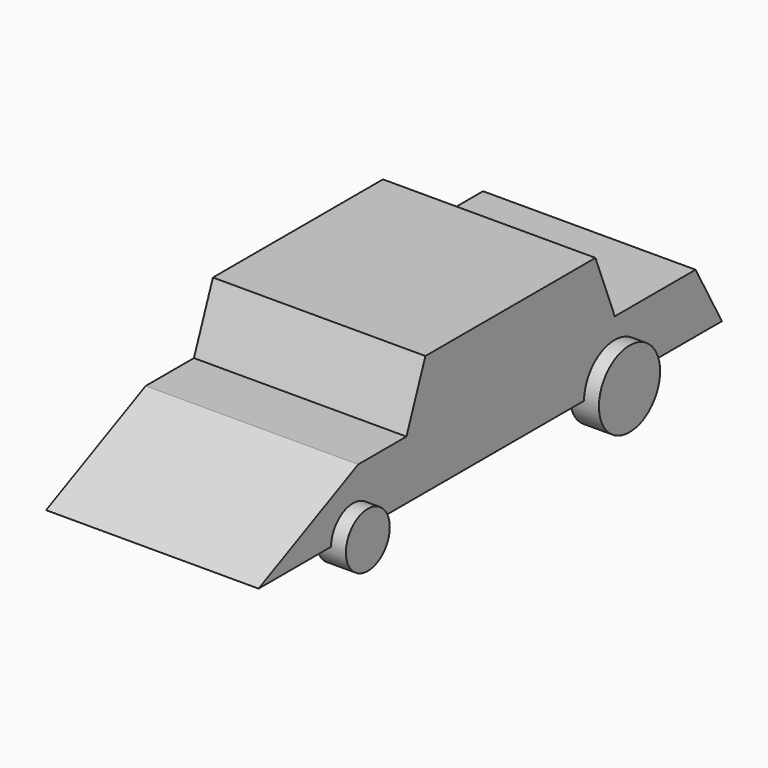
from build123d import *

# Parameters (mm, degrees)
F1_DEPTH      = 101.6
F2_R          = 13.3499518003
F2_R_2        = 18.5793981889
F3_DEPTH      = 8.128
F3_DEPTH_BACK = 4.318
F5_START      = 94.742
F4_R          = 13.0989640124
F4_R_2        = 18.281744148
F5_DEPTH      = 13.97


with BuildPart() as f1:
    # F0 (on Right) → F1 (new body)
    with BuildSketch(Plane.YZ):
        Polygon((-21.862315014, 0), (-50.7084243, 0), (-110.2225035429, -28.0870012939), (166.6699335306, -28.0870012939), (150.910705328, 0), (102.6314273477, 0), align=None)
        Polygon((-10.5197704383, 29.3015744537), (-21.862315014, 0), (102.6314273477, 0), (91.0929739475, 29.3015744537), align=None)
    extrude(amount=F1_DEPTH)

    # F2 (on Right) → F3 (join, two sides)
    with BuildSketch(Plane.YZ) as f3_sk:
        with Locations((-54.4017069042, -28.1698741019)):
            Circle(F2_R)
        with Locations((102.5818586349, -28.1698741019)):
            Circle(F2_R_2)
    extrude(amount=-F3_DEPTH)
    extrude(f3_sk.sketch, amount=F3_DEPTH_BACK)

    # F4 (on Right) → F5 (join)
    with BuildSketch(Plane.YZ.offset(F5_START)):
        with Locations((-53.8203082979, -28.1698741019)):
            Circle(F4_R)
        with Locations((102.5559827685, -28.1698741019)):
            Circle(F4_R_2)
    extrude(amount=F5_DEPTH)


solid = f1.part
